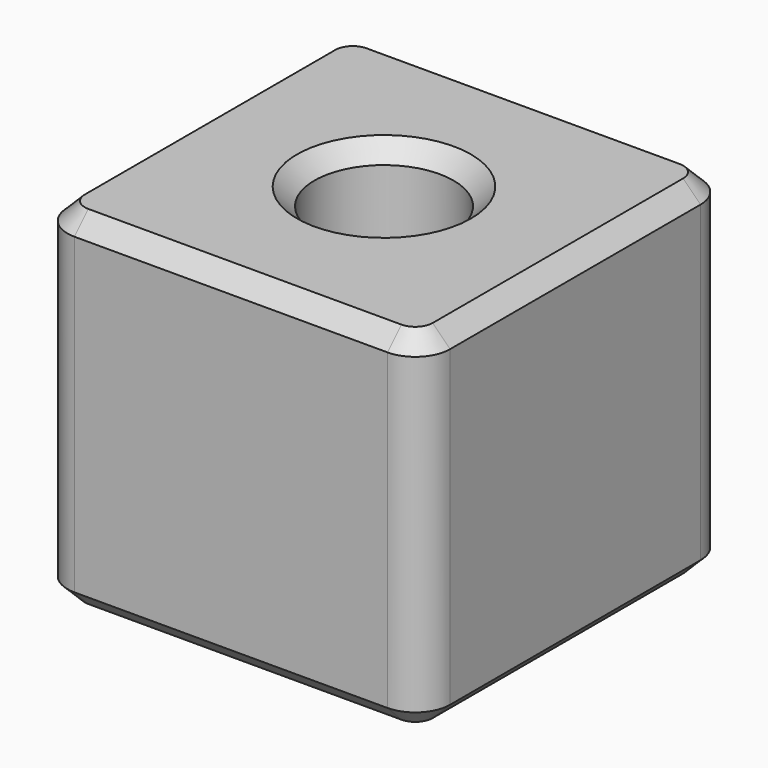
from build123d import *

# Parameters (mm, degrees)
F0_R     = 2
F1_DEPTH = 10
F2_SIZE  = 0.5


with BuildPart() as f1:
    # F0 (on Top) → F1 (new body)
    with BuildSketch(Plane.XY):
        with BuildLine():
            ThreePointArc((5.5, 4.5), (5.207107, 5.207107), (4.5, 5.5))
            Line((4.5, 5.5), (-4.5, 5.5))
            ThreePointArc((-4.5, 5.5), (-5.207107, 5.207107), (-5.5, 4.5))
            Line((-5.5, 4.5), (-5.5, -4.5))
            ThreePointArc((-5.5, -4.5), (-5.207107, -5.207107), (-4.5, -5.5))
            Line((-4.5, -5.5), (4.5, -5.5))
            ThreePointArc((4.5, -5.5), (5.207107, -5.207107), (5.5, -4.5))
            Line((5.5, -4.5), (5.5, 4.5))
        make_face()
        Circle(F0_R, mode=Mode.SUBTRACT)
    extrude(amount=F1_DEPTH)

    # F2
    f2_edges = [f1.edges().sort_by_distance(p)[0] for p in [
        (5.207107, 5.207107, 0),
        (0, 5.5, 0),
        (-5.207107, 5.207107, 0),
        (-5.5, 0, 0),
        (-5.207107, -5.207107, 0),
        (0, -5.5, 0),
        (5.207107, -5.207107, 0),
        (5.5, 0, 0),
        (-2, 0, 0),
        (5.207107, 5.207107, 10),
        (0, 5.5, 10),
        (-5.207107, 5.207107, 10),
        (-5.5, 0, 10),
        (-5.207107, -5.207107, 10),
        (0, -5.5, 10),
        (5.207107, -5.207107, 10),
        (5.5, 0, 10),
        (-2, 0, 10),
    ]]
    chamfer(f2_edges, length=F2_SIZE)


solid = f1.part
